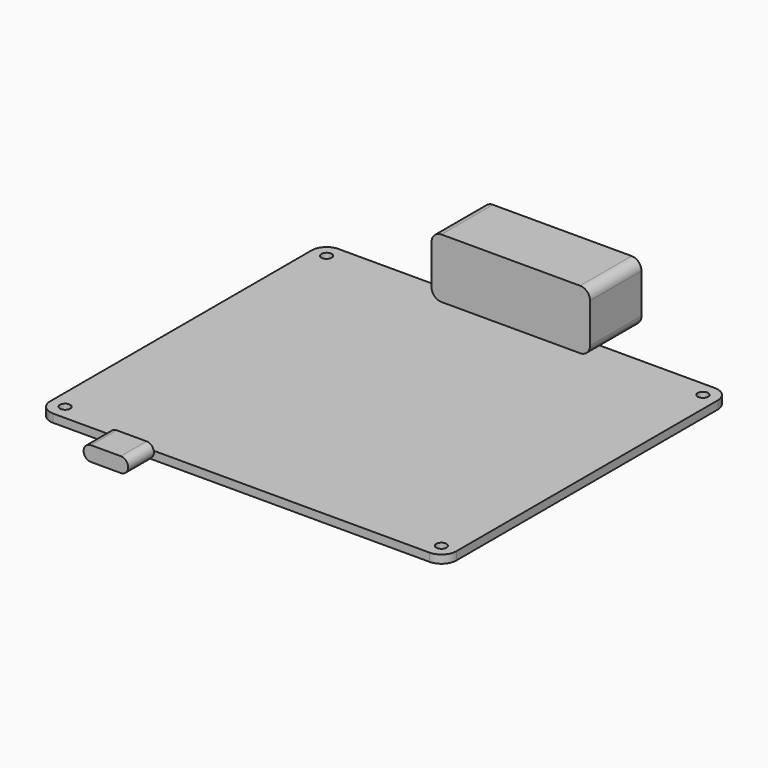
from build123d import *

# Parameters (mm, degrees)
PAD006_DEPTH = 13
PAD007_DEPTH = 6.5
SKETCH005_R  = 1.05
PAD005_DEPTH = 1.65


with BuildPart() as connectorbody:
    # Sketch006 → Pad006 (new body)
    with BuildSketch(Plane.XZ):
        with BuildLine():
            Line((-14, 6), (14, 6))
            ThreePointArc((16, 4), (15.414214, 5.414214), (14, 6))
            Line((16, 4), (16, -4))
            ThreePointArc((14, -6), (15.414214, -5.414214), (16, -4))
            Line((14, -6), (-14, -6))
            ThreePointArc((-16, -4), (-15.414214, -5.414214), (-14, -6))
            Line((-16, -4), (-16, 4))
            ThreePointArc((-14, 6), (-15.414214, 5.414214), (-16, 4))
        make_face()
    extrude(amount=PAD006_DEPTH)


with BuildPart() as connectorbody_1:
    # Body005 placement: moved
    add(connectorbody.part.moved(Location((0, 45, 7.65))))


with BuildPart() as usbbody:
    # Sketch007 → Pad007 (new body)
    with BuildSketch(Plane.XZ):
        with BuildLine():
            ThreePointArc((-3, 1.5), (-4.5, 0), (-3, -1.5))
            Line((-3, -1.5), (3, -1.5))
            ThreePointArc((3, -1.5), (4.5, 0), (3, 1.5))
            Line((-3, 1.5), (3, 1.5))
        make_face()
    extrude(amount=PAD007_DEPTH)


with BuildPart() as usbbody_1:
    # Body006 placement: moved
    add(usbbody.part.moved(Location((-20, -38.7, 3.15))))


with BuildPart() as boardpart:
    # Sketch005 → Pad005 (new body)
    with BuildSketch(Plane.XY):
        with BuildLine():
            Line((-38, 36), (38, 36))
            ThreePointArc((41, 33), (40.12132, 35.12132), (38, 36))
            Line((41, 33), (41, -33))
            ThreePointArc((38, -36), (40.12132, -35.12132), (41, -33))
            Line((38, -36), (-38, -36))
            ThreePointArc((-41, -33), (-40.12132, -35.12132), (-38, -36))
            Line((-41, -33), (-41, 33))
            ThreePointArc((-38, 36), (-40.12132, 35.12132), (-41, 33))
        make_face()
        with Locations((-38, -33)):
            Circle(SKETCH005_R, mode=Mode.SUBTRACT)
        with Locations((38, -33)):
            Circle(SKETCH005_R, mode=Mode.SUBTRACT)
        with Locations((38, 33)):
            Circle(SKETCH005_R, mode=Mode.SUBTRACT)
        with Locations((-38, 33)):
            Circle(SKETCH005_R, mode=Mode.SUBTRACT)
    extrude(amount=PAD005_DEPTH)

    # Fusion: union ConnectorBody, UsbBody
    add(connectorbody_1.part)
    add(usbbody_1.part)


with BuildPart() as boardpart_1:
    # Fusion placement: moved
    add(boardpart.part.moved(Location((0, 0, 4.05))))


solid = boardpart_1.part
